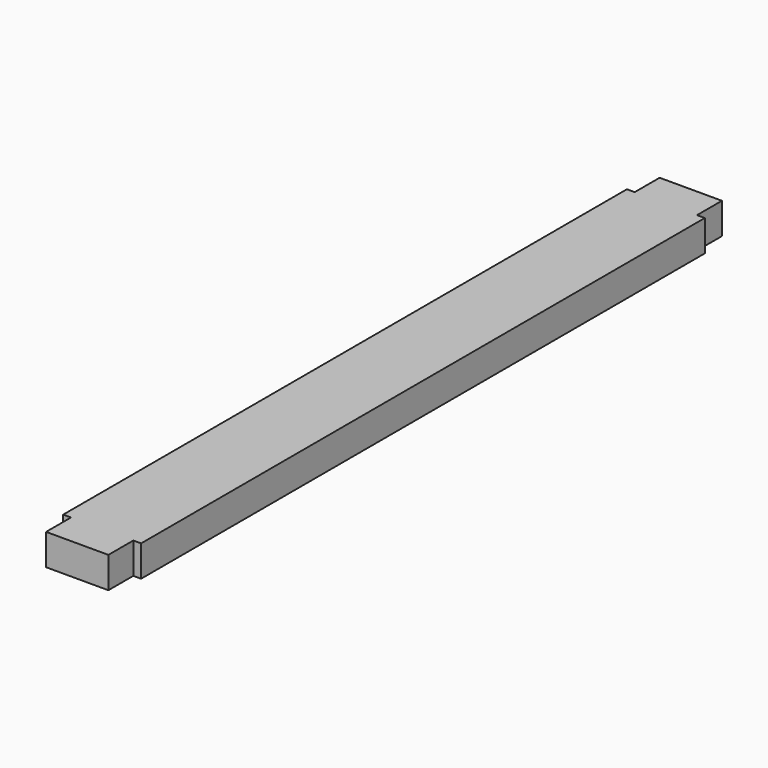
from build123d import *

# Parameters (mm, degrees)
F1_DEPTH = 6


with BuildPart() as f1:
    # F0 (on Top) → F1 (new body)
    with BuildSketch(Plane.XY):
        Polygon((-7.5, 67.85), (-7.5, 0), (-7.5, -67.85), (-6, -67.85), (-6, -73.85), (0, -73.85), (6, -73.85), (6, -67.85), (7.5, -67.85), (7.5, 0), (7.5, 67.85), (6, 67.85), (6, 73.85), (0, 73.85), (-6, 73.85), (-6, 67.85), align=None)
    extrude(amount=F1_DEPTH)


solid = f1.part
